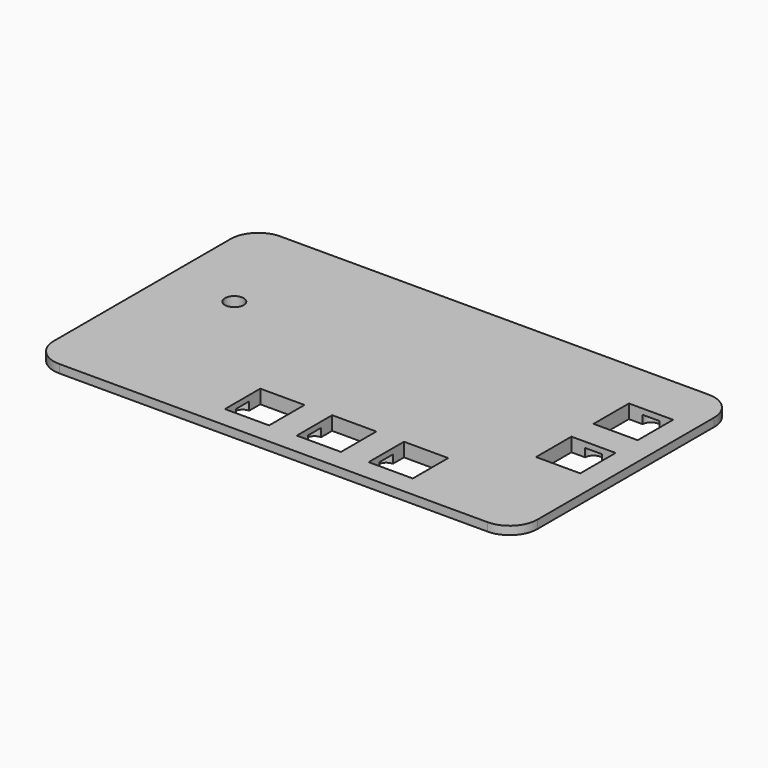
from build123d import *

# Parameters (mm, degrees)
SKETCH_W        = 175
SKETCH_H        = 100
PAD_DEPTH       = 5
FILLET_R        = 10
SKETCH001_R     = 3.4
SKETCH001_W     = 16
SKETCH001_H     = 16
POCKET_DEPTH    = 5.001
SKETCH002_W     = 189.697797
SKETCH002_H     = 117.830608
POCKET001_DEPTH = 2
SKETCH003_W     = 43.44
SKETCH003_H     = 41.15
POCKET002_DEPTH = 4.5
SKETCH004_R     = 3
POCKET003_DEPTH = 3


with BuildPart() as part:
    # Sketch → Pad (new body)
    with BuildSketch(Plane.XY):
        with Locations((-10.270103, -10.695957)):
            Rectangle(SKETCH_W, SKETCH_H)
    extrude(amount=PAD_DEPTH)

    # Fillet
    fillet_edges = [part.edges().sort_by_distance(p)[0] for p in [
        (-97.770103, -60.695957, 2.5),
        (-97.770103, 39.304043, 2.5),
        (77.229897, -60.695957, 2.5),
        (77.229897, 39.304043, 2.5),
    ]]
    fillet(fillet_edges, radius=FILLET_R)

    # Sketch001 → Pocket (cut, through all)
    with BuildSketch(Plane.XY.offset(5)):
        with Locations((-73, 0)):
            Circle(SKETCH001_R)
        with Locations((-26, -45)):
            Rectangle(SKETCH001_W, SKETCH001_H)
        with Locations((0, -45)):
            Rectangle(SKETCH001_W, SKETCH001_H)
        with Locations((26, -45)):
            Rectangle(SKETCH001_W, SKETCH001_H)
        with Locations((61, 13)):
            Rectangle(SKETCH001_W, SKETCH001_H)
        with Locations((61, -13)):
            Rectangle(SKETCH001_W, SKETCH001_H)
    extrude(amount=-POCKET_DEPTH, mode=Mode.SUBTRACT)

    # Sketch002 → Pocket001 (cut)
    with BuildSketch(Plane(origin=(0, 0, 0), x_dir=(1, 0, 0), z_dir=(0, 0, -1))):
        with Locations((-11.809575, 11.293159)):
            Rectangle(SKETCH002_W, SKETCH002_H)
        with BuildLine():
            Line((-87.770101, 56.695957), (67.229895, 56.695957))
            ThreePointArc((73.229897, 50.695985), (71.472527, 54.938608), (67.229895, 56.695957))
            Line((73.229897, 50.695985), (73.229897, -29.304043))
            ThreePointArc((67.229897, -35.304043), (71.472538, -33.546684), (73.229897, -29.304043))
            Line((-87.770103, -35.304043), (67.229897, -35.304043))
            ThreePointArc((-93.770103, -29.304043), (-92.012744, -33.546684), (-87.770103, -35.304043))
            Line((-93.770103, 50.695985), (-93.770103, -29.304043))
            ThreePointArc((-87.770101, 56.695957), (-92.012733, 54.938608), (-93.770103, 50.695985))
        make_face(mode=Mode.SUBTRACT)
    extrude(amount=-POCKET001_DEPTH, mode=Mode.SUBTRACT)

    # Sketch003 → Pocket002 (cut)
    with BuildSketch(Plane(origin=(0, 0, 0), x_dir=(1, 0, 0), z_dir=(0, 0, -1))):
        Rectangle(SKETCH003_W, SKETCH003_H)
    extrude(amount=-POCKET002_DEPTH, mode=Mode.SUBTRACT)

    # Sketch004 → Pocket003 (cut)
    with BuildSketch(Plane(origin=(0, 0, 0), x_dir=(1, 0, 0), z_dir=(0, 0, -1))):
        with Locations((-34, 45)):
            Circle(SKETCH004_R)
        with Locations((-18, 45)):
            Circle(SKETCH004_R)
        with Locations((-8, 45)):
            Circle(SKETCH004_R)
        with Locations((8, 45)):
            Circle(SKETCH004_R)
        with Locations((18, 45)):
            Circle(SKETCH004_R)
        with Locations((34, 45)):
            Circle(SKETCH004_R)
        with Locations((61, 21)):
            Circle(SKETCH004_R)
        with Locations((61, 5)):
            Circle(SKETCH004_R)
        with Locations((61, -5)):
            Circle(SKETCH004_R)
        with Locations((61, -21)):
            Circle(SKETCH004_R)
    extrude(amount=-POCKET003_DEPTH, mode=Mode.SUBTRACT)


solid = part.part
